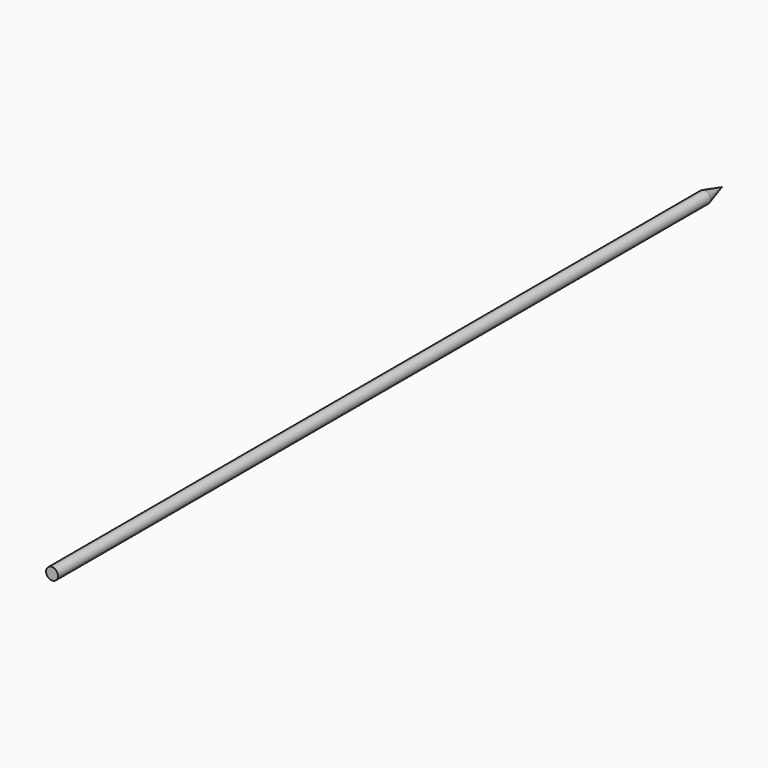
from build123d import *

# Parameters (mm, degrees)
F0_R     = 1.27
F1_DEPTH = 88.9


with BuildPart() as f1:
    # F0 (on Front) → F1 (new body, symmetric)
    with BuildSketch(Plane.XZ):
        Circle(F0_R)
    extrude(amount=F1_DEPTH, both=True)

    # F2 (on Top) → F3 (revolve, cut)
    with BuildSketch(Plane.XY):
        Polygon((-1.2701143664, 93.7513983365), (-1.2701143664, 84.2708962125), (0, 88.9), (0, 93.7513983365), align=None)
    revolve(axis=Axis((0, 86.9678706646, 0), (0, -1, 0)), mode=Mode.SUBTRACT)


solid = f1.part
